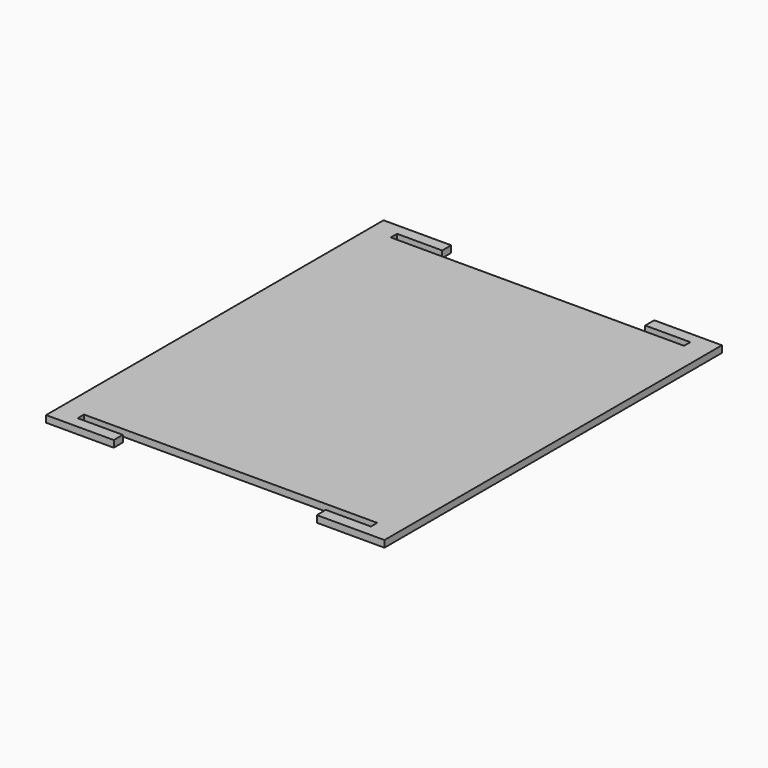
from build123d import *

# Parameters (mm, degrees)
F1_DEPTH = 3


with BuildPart() as f1:
    # F0 (on Top) → F1 (new body)
    with BuildSketch(Plane.XY):
        Polygon((-37.913406, 149.303072), (-37.913406, 140.803072), (-27.913406, 140.803072), (-27.913406, 144.303072), (-7.913406, 144.303072), (-7.913406, 149.303072), align=None)
        Polygon((-27.913406, 140.803072), (-37.913406, 140.803072), (-37.913406, -29.196928), (-27.913406, -29.196928), (-10.80574, -29.196928), (30.025003, -29.196928), (35.025003, -29.196928), (102.086594, -29.196928), (112.086594, -29.196928), (112.086594, 15.985355), (112.086594, 140.803072), (102.086594, 140.803072), align=None)
        Polygon((-27.913406, -29.196928), (-37.913406, -29.196928), (-37.913406, -37.696928), (-7.913406, -37.696928), (-7.913406, -32.696928), (-27.913406, -32.696928), align=None)
        Polygon((102.086594, 144.303072), (102.086594, 140.803072), (112.086594, 140.803072), (112.086594, 149.303072), (82.086594, 149.303072), (82.086594, 144.303072), align=None)
        Polygon((112.086594, -37.696928), (112.086594, -29.196928), (102.086594, -29.196928), (102.086594, -32.696928), (82.086594, -32.696928), (82.086594, -37.696928), align=None)
    extrude(amount=F1_DEPTH)


solid = f1.part
